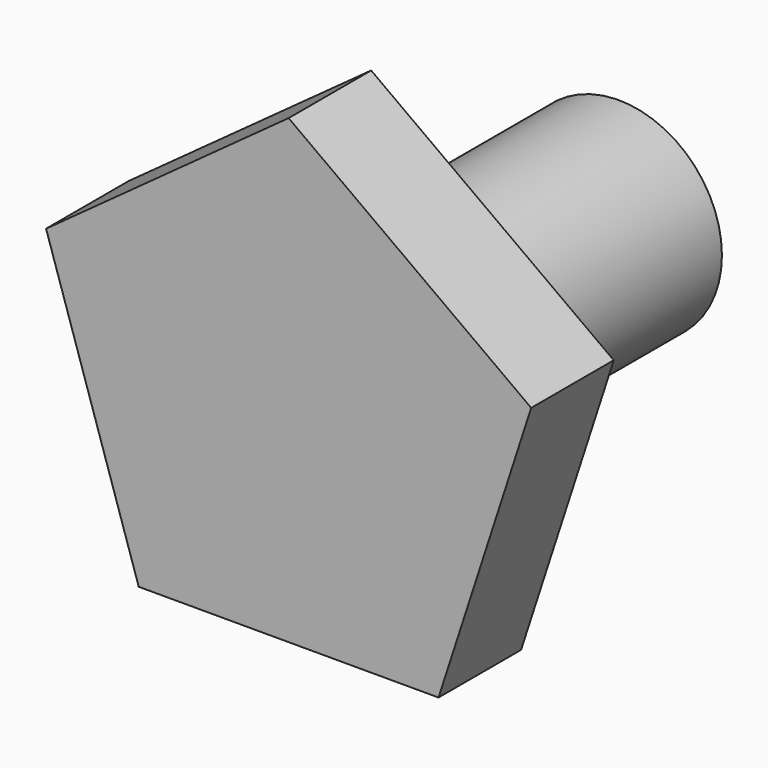
from build123d import *

# Parameters (mm, degrees)
F0_R     = 25.4
F1_DEPTH = 76.2
F3_DEPTH = 25.4


with BuildPart() as f1:
    # F0 (on Front) → F1 (new body)
    with BuildSketch(Plane.XZ):
        Circle(F0_R)
    extrude(amount=F1_DEPTH)

    # F2 (on face) → F3 (join)
    with BuildSketch(Plane.XZ.offset(76.2)):
        Polygon((36.90836, -50.8), (59.718982, 19.403873), (0, 62.792253), (-59.718982, 19.403873), (-36.90836, -50.8), align=None)
    extrude(amount=F3_DEPTH)


solid = f1.part
